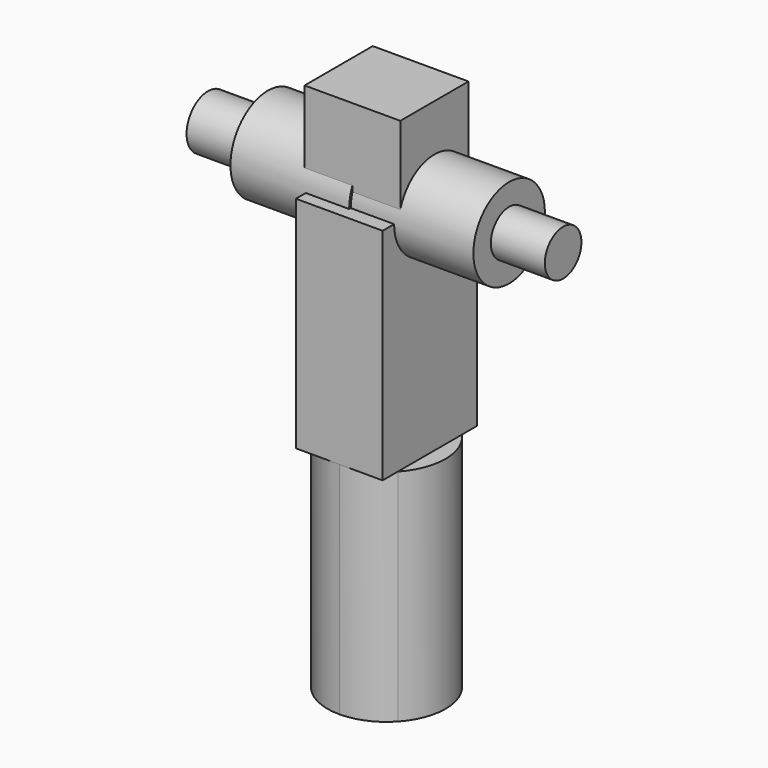
from build123d import *

# Parameters (mm, degrees)
F0_R      = 12.400699
F1_DEPTH  = 34.005828
F2_R      = 12.950879
F3_DEPTH  = 32.92565
F5_W      = 24.064958
F5_H      = 32.778248
F6_DEPTH  = 60.947001
F4_W      = 26.554584
F4_H      = 23.65014
F8_DEPTH  = 25.4
F7_R      = 6.344063
F9_DEPTH  = 14.975553
F10_R     = 7.426206
F11_DEPTH = 16.588198
F12_R     = 16.389124
F13_DEPTH = 61.027274


with BuildPart() as f1:
    # F0 (on Right) → F1 (new body)
    with BuildSketch(Plane.YZ):
        Circle(F0_R)
    extrude(amount=F1_DEPTH)

    # F2 (on Right) → F3 (join)
    with BuildSketch(Plane.YZ):
        Circle(F2_R)
    extrude(amount=-F3_DEPTH)

    # F5 (on Top) → F6 (join)
    with BuildSketch(Plane.XY):
        Rectangle(F5_W, F5_H)
    extrude(amount=-F6_DEPTH)

    # F4 (on Top) → F8 (join)
    with BuildSketch(Plane.XY):
        Rectangle(F4_W, F4_H)
    extrude(amount=F8_DEPTH)

    # F7 (on face) → F9 (join)
    with BuildSketch(Plane.YZ.offset(34.005828)):
        Circle(F7_R)
    extrude(amount=F9_DEPTH)

    # F10 (on face) → F11 (join)
    with BuildSketch(Plane(origin=(-32.92565, 0, 0), x_dir=(0, -1, 0), z_dir=(-1, 0, 0))):
        Circle(F10_R)
    extrude(amount=F11_DEPTH)

    # F12 (on face) → F13 (join)
    with BuildSketch(Plane(origin=(0, 0, -60.947001), x_dir=(1, 0, 0), z_dir=(0, 0, -1))):
        with BuildLine():
            Line((12.032479, -11.127571), (12.032479, 11.127571))
            ThreePointArc((12.032479, 11.127571), (6.566287, 15.016233), (0, 16.389124))
            ThreePointArc((0, 16.389124), (-6.566287, 15.016233), (-12.032479, 11.127571))
            Line((-12.032479, 11.127571), (-12.032479, -11.127571))
            ThreePointArc((-12.032479, -11.127571), (-6.566287, -15.016233), (0, -16.389124))
            ThreePointArc((0, -16.389124), (6.566287, -15.016233), (12.032479, -11.127571))
        make_face()
        Circle(F12_R)
    extrude(amount=F13_DEPTH)


solid = f1.part
